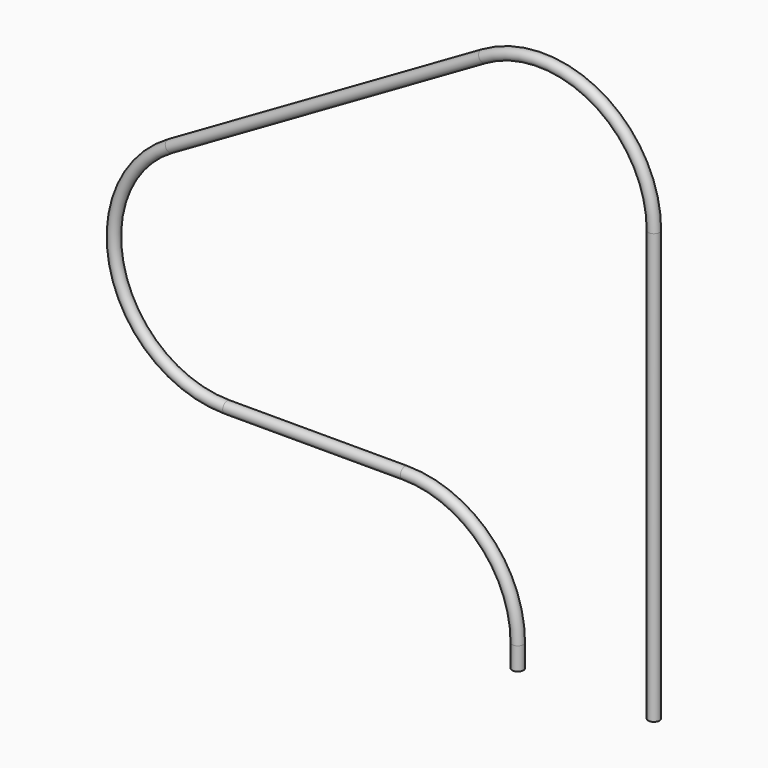
from build123d import *

# Parameters (mm, degrees)
F1_R = 12.7


with BuildPart() as f2:
    # F2: sweep along a path in F0
    with BuildLine(Plane.XZ) as f2_path:
        Line((0, 0), (0, 965.2))
        ThreePointArc((0, 965.2), (-127, 1185.1704525612), (-381, 1185.1704525612))
        Line((-381, 1185.1704525612), (-1084.905448196, 778.7704525612))
        ThreePointArc((-1084.905448196, 778.7704525612), (-1203.2506080734, 493.059962544), (-957.905448196, 304.8))
        Line((-957.905448196, 304.8), (-558.8, 304.8))
        ThreePointArc((-558.8, 304.8), (-379.1948775786, 230.4051224214), (-304.8, 50.8))
        Line((-304.8, 50.8), (-304.8, 0))
    # F1 (on Top) → F2 (sweep)
    with BuildSketch(Plane.XY):
        with Locations((0.4990471643, 0.939192716)):
            Circle(F1_R)
    sweep(path=f2_path.line)


solid = f2.part
